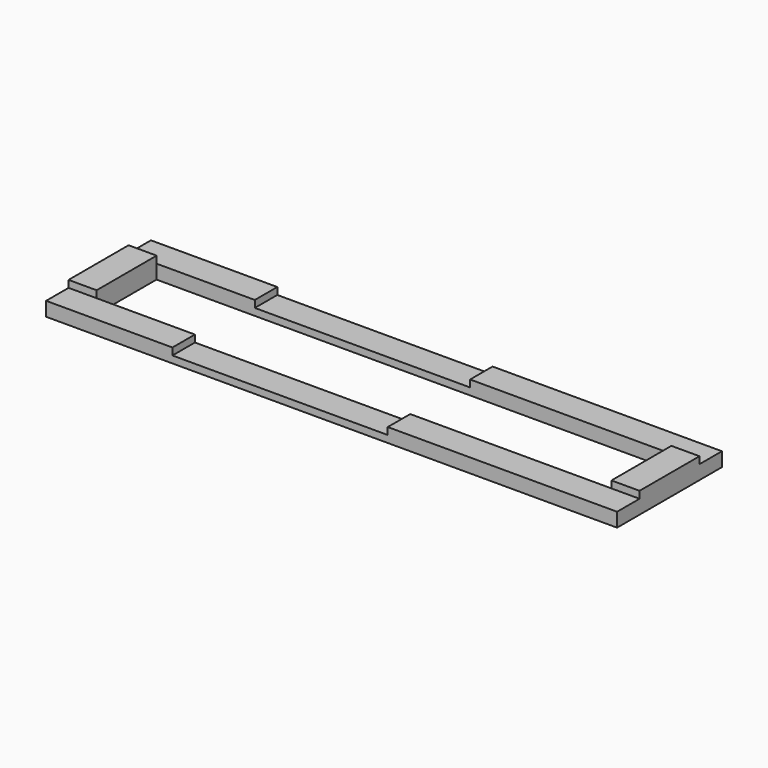
from build123d import *

# Parameters (mm, degrees)
F0_W     = 3
F0_H     = 8
F0_W_2   = 23
F0_H_2   = 3
F1_DEPTH = 0.75
F2_DEPTH = 2.25
F3_DEPTH = 1.5


with BuildPart() as f1:
    # F0 (on Top) → F1 (new body)
    with BuildSketch(Plane.XY):
        with Locations((29, 0)):
            Rectangle(F0_W, F0_H)
        with Locations((-5.5, 5.5)):
            Rectangle(F0_W_2, F0_H_2)
        Polygon((-30.5, 4.013143), (-30.5, -4), (-27.5, -4), (-27.5, 4), (-27.5, 4.013143), align=None)
        with Locations((-5.5, -5.5)):
            Rectangle(F0_W_2, F0_H_2)
        Polygon((-30.5, 7), (-30.5, 4.013143), (-27.5, 4.013143), (-27.5, 4), (-17, 4), (-17, 7), align=None)
        Polygon((-30.5, 4.013143), (-30.5, -4), (-27.5, -4), (-27.5, 4), (-27.5, 4.013143), align=None)
        with Locations((29, 0)):
            Rectangle(F0_W, F0_H)
    extrude(amount=F1_DEPTH)

    # F0 (on Top) → F2 (join)
    with BuildSketch(Plane.XY):
        Polygon((-30.5, 4.013143), (-30.5, -4), (-27.5, -4), (-27.5, 4), (-27.5, 4.013143), align=None)
        with Locations((29, 0)):
            Rectangle(F0_W, F0_H)
    extrude(amount=F2_DEPTH)

    # F0 (on Top) → F3 (join)
    with BuildSketch(Plane.XY):
        Polygon((-30.5, 7), (-30.5, 4.013143), (-27.5, 4.013143), (-27.5, 4), (-17, 4), (-17, 7), align=None)
        Polygon((27.5, 4), (30.5, 4), (30.5, 7), (6, 7), (6, 4), align=None)
        Polygon((6, -7), (30.5, -7), (30.5, -4), (27.5, -4), (6, -4), align=None)
        Polygon((-30.5, -7), (-17, -7), (-17, -4), (-27.5, -4), (-30.5, -4), align=None)
        Polygon((-30.5, 4.013143), (-30.5, -4), (-27.5, -4), (-27.5, 4), (-27.5, 4.013143), align=None)
        with Locations((29, 0)):
            Rectangle(F0_W, F0_H)
    extrude(amount=F3_DEPTH)


solid = f1.part
